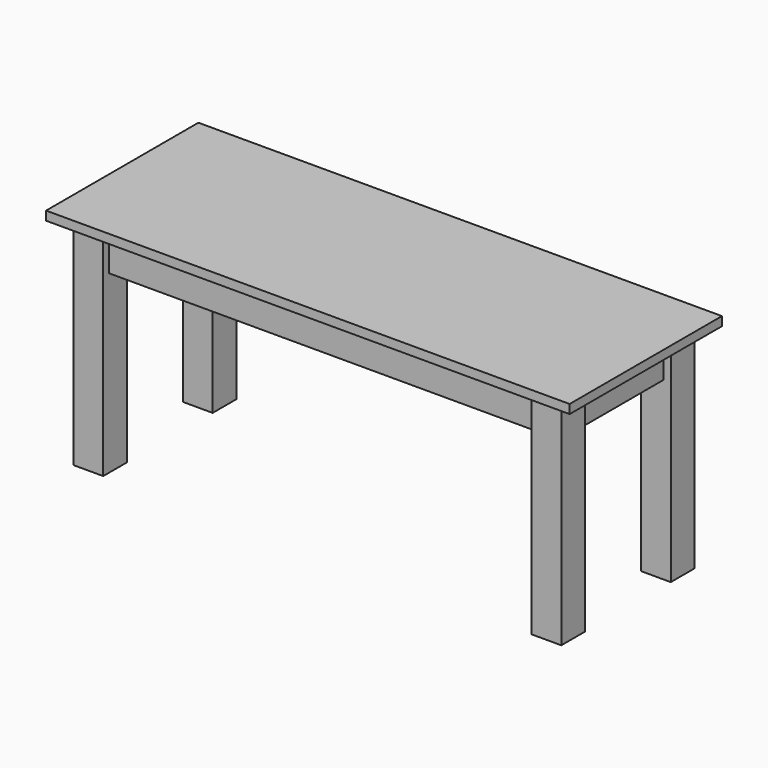
from build123d import *

# Parameters (mm, degrees)
F0_W      = 1117.6
F0_H      = 406.4
F1_DEPTH  = 19.05
F2_W      = 63.5
F2_H      = 63.5
F3_DEPTH  = 457.2
F6_W      = 19.05
F6_H      = 228.6
F7_DEPTH  = 82.55
F9_W      = 914.4
F9_H      = 19.05
F10_DEPTH = 82.55
F11_W     = 914.4
F11_H     = 15.875
F12_DEPTH = 82.55
F13_W     = 292.1707866669
F13_H     = 82.55
F14_DEPTH = 19.05
F15_W     = 292.3078624487
F15_H     = 82.55
F16_DEPTH = 19.05
F17_W     = 19.05
F17_H     = 292.1
F18_DEPTH = 82.55
F19_W     = 19.05
F19_H     = 292.1
F20_DEPTH = 82.55
F21_W     = 19.05
F21_H     = 292.1
F22_DEPTH = 82.55


with BuildPart() as f1:
    # F0 (on Top) → F1 (new body)
    with BuildSketch(Plane.XY):
        Rectangle(F0_W, F0_H)
    extrude(amount=F1_DEPTH)

    # F2 (on face) → F3 (join)
    with BuildSketch(Plane(origin=(0, 0, 0), x_dir=(1, 0, 0), z_dir=(0, 0, -1))):
        with Locations((-488.95, 146.05)):
            Rectangle(F2_W, F2_H)
    extrude(amount=F3_DEPTH)

    # F4: F1 across plane


with BuildPart() as f1_1:
    add(f1.part)
    add(f1.part.mirror(Plane.XZ))

    # F5: F1 across plane


with BuildPart() as f1_2:
    add(f1_1.part)
    add(f1_1.part.mirror(Plane.YZ))

    # F6 (on face) → F7 (join)
    with BuildSketch(Plane(origin=(0, 0, 0), x_dir=(1, 0, 0), z_dir=(0, 0, -1))):
        with Locations((495.3, 0)):
            Rectangle(F6_W, F6_H)
    extrude(amount=F7_DEPTH)

    # F8: F1 across plane


with BuildPart() as f1_3:
    add(f1_2.part)
    add(f1_2.part.mirror(Plane.YZ))

    # F9 (on face) → F10 (join)
    with BuildSketch(Plane(origin=(0, 0, 0), x_dir=(1, 0, 0), z_dir=(0, 0, -1))):
        with Locations((0, -155.575)):
            Rectangle(F9_W, F9_H)
    extrude(amount=F10_DEPTH)

    # F11 (on face) → F12 (join)
    with BuildSketch(Plane(origin=(0, 0, 0), x_dir=(1, 0, 0), z_dir=(0, 0, -1))):
        with Locations((0, 153.9875)):
            Rectangle(F11_W, F11_H)
    extrude(amount=F12_DEPTH)

    # F13 (on face) → F14 (join)
    with BuildSketch(Plane(origin=(457.2, 0, 0), x_dir=(0, -1, 0), z_dir=(-1, 0, 0))):
        with Locations((0.0353933334, -41.275)):
            Rectangle(F13_W, F13_H)
    extrude(amount=F14_DEPTH)

    # F15 (on face) → F16 (join)
    with BuildSketch(Plane.YZ.offset(-457.2)):
        with Locations((0.1039312243, -41.275)):
            Rectangle(F15_W, F15_H)
    extrude(amount=F16_DEPTH)

    # F17 (on face) → F18 (join)
    with BuildSketch(Plane(origin=(0, 0, 0), x_dir=(1, 0, 0), z_dir=(0, 0, -1))):
        Rectangle(F17_W, F17_H)
    extrude(amount=F18_DEPTH)

    # F19 (on face) → F20 (join)
    with BuildSketch(Plane(origin=(0, 0, 0), x_dir=(1, 0, 0), z_dir=(0, 0, -1))):
        with Locations((-233.3625, 0)):
            Rectangle(F19_W, F19_H)
    extrude(amount=F20_DEPTH)

    # F21 (on face) → F22 (join)
    with BuildSketch(Plane(origin=(0, 0, 0), x_dir=(1, 0, 0), z_dir=(0, 0, -1))):
        with Locations((223.8375, 0)):
            Rectangle(F21_W, F21_H)
    extrude(amount=F22_DEPTH)


solid = f1_3.part
